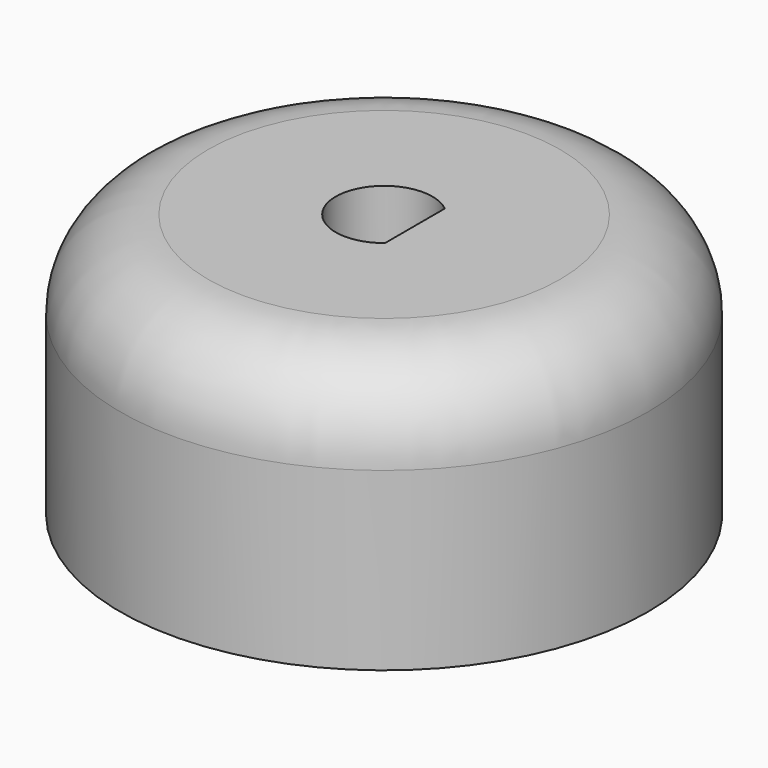
from build123d import *

# Parameters (mm, degrees)
F0_R     = 15
F1_DEPTH = 15
F3_DEPTH = 25
F4_R     = 5


with BuildPart() as f1:
    # F0 (on Top) → F1 (new body)
    with BuildSketch(Plane.XY):
        Circle(F0_R)
    extrude(amount=F1_DEPTH)

    # F2 (on face) → F3 (cut)
    with BuildSketch(Plane(origin=(0, 0, 0), x_dir=(1, 0, 0), z_dir=(0, 0, -1))):
        with BuildLine():
            Line((1.75, -2.12132), (1.75, 2.12132))
            ThreePointArc((1.75, 2.12132), (-2.75, 0), (1.75, -2.12132))
        make_face()
    extrude(amount=-F3_DEPTH, mode=Mode.SUBTRACT)

    # F4
    f4_edges = [f1.edges().sort_by_distance(p)[0] for p in [
        (-15, 0, 15),
    ]]
    fillet(f4_edges, radius=F4_R)


solid = f1.part
